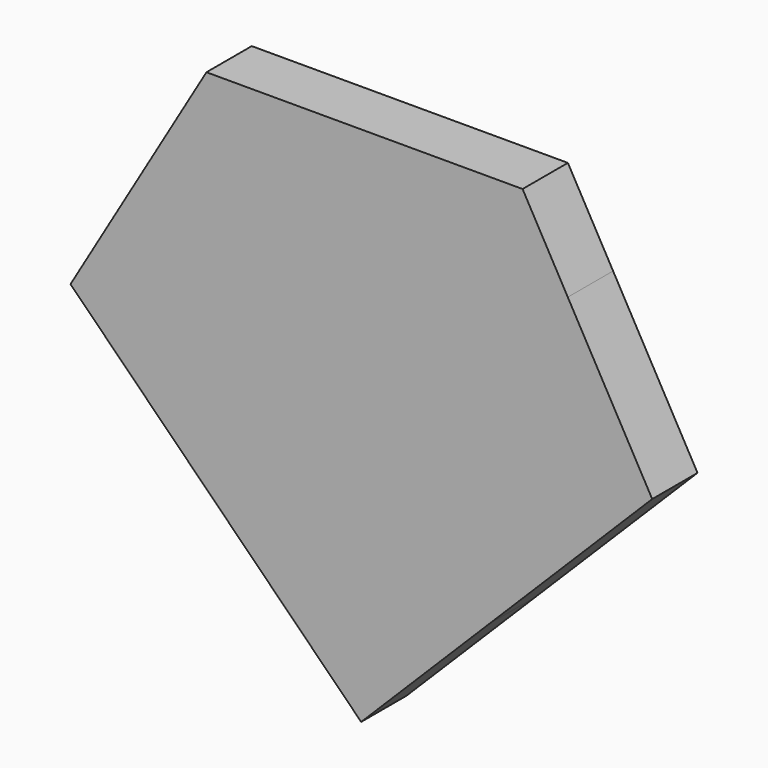
from build123d import *

# Parameters (mm, degrees)
F0_W     = 17.2953959554
F0_H     = 20.221420344
F0_W_2   = 14.8890800774
F1_DEPTH = 7.62


with BuildPart() as f1:
    # F0 (on Front) → F1 (new body)
    with BuildSketch(Plane.XZ):
        Polygon((21.7189490795, 27.1144714206), (-20.8191070706, 27.1144714206), (-27.1992298657, 16.2831095644), (-14.8890800774, 16.2831095644), (0, 16.2831095644), (17.2953959554, 16.2831095644), (27.8023161679, 16.2831095644), align=None)
        Polygon((-14.8890800774, 16.2831095644), (-27.1992298657, 16.2831095644), (-39.1104878035, -3.9383107796), (-14.8890800774, -3.9383107796), align=None)
        Polygon((39.1595512629, -3.9383107796), (27.8023161679, 16.2831095644), (17.2953959554, 16.2831095644), (17.2953959554, -3.9383107796), align=None)
        Polygon((-14.8890800774, -3.9383107796), (-39.1104878035, -3.9383107796), (-14.8890800774, -28.1749064214), align=None)
        Polygon((17.2953959554, -25.7887648663), (39.1595512629, -3.9383107796), (17.2953959554, -3.9383107796), align=None)
        Polygon((-14.8890800774, -3.9383107796), (-14.8890800774, -28.1749064214), (0, -43.073322624), (0, -3.9383107796), align=None)
        Polygon((0, -43.073322624), (17.2953959554, -25.7887648663), (17.2953959554, -3.9383107796), (0, -3.9383107796), align=None)
        with Locations((8.6476979777, 6.1723993924)):
            Rectangle(F0_W, F0_H)
        with Locations((-7.4445400387, 6.1723993924)):
            Rectangle(F0_W_2, F0_H)
    extrude(amount=F1_DEPTH)


solid = f1.part
